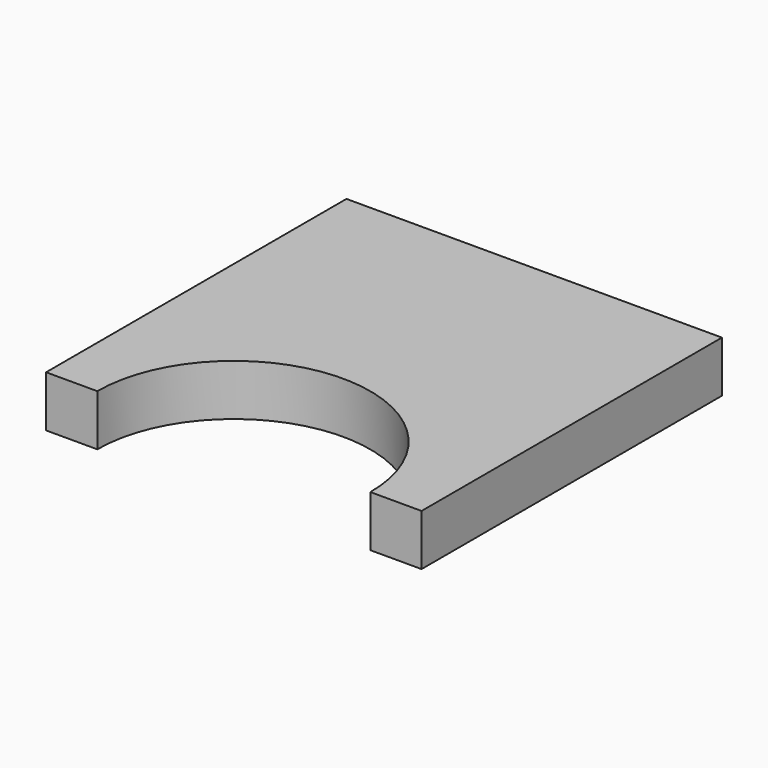
from build123d import *

# Parameters (mm, degrees)
F1_DEPTH = 19.05


with BuildPart() as f1:
    # F0 (on Top) → F1 (new body)
    with BuildSketch(Plane.XY):
        with BuildLine():
            Line((69.849999, -69.709386), (69.849999, 69.990614))
            Line((69.849999, 69.990614), (-69.850001, 69.990614))
            Line((-69.850001, 69.990614), (-69.850001, -69.709386))
            Line((-69.850001, -69.709386), (-50.800001, -69.709386))
            ThreePointArc((-50.800001, -69.709386), (-1e-06, -18.909386), (50.799999, -69.709386))
            Line((50.799999, -69.709386), (69.849999, -69.709386))
        make_face()
    extrude(amount=F1_DEPTH)


solid = f1.part
